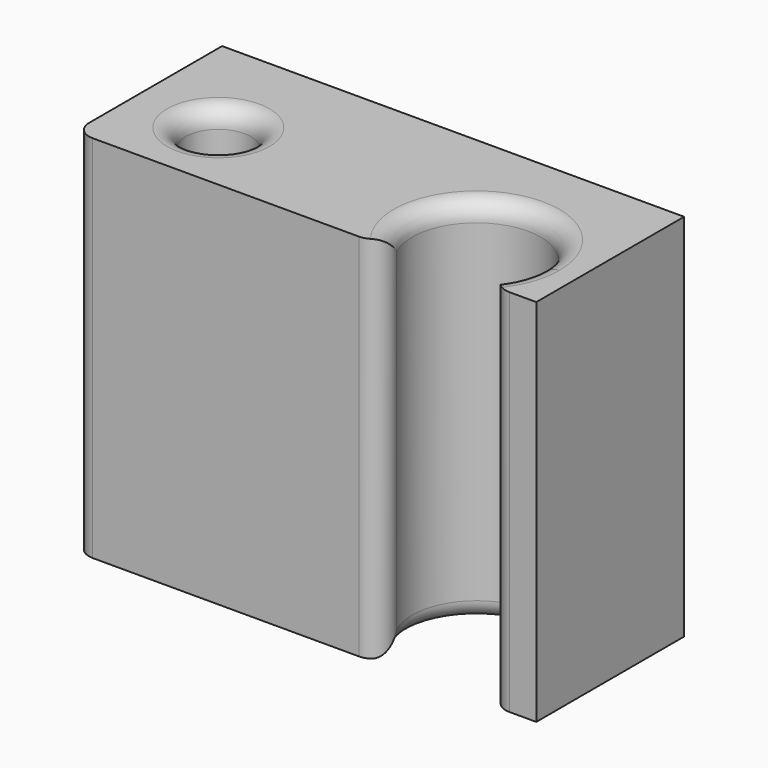
from build123d import *

# Parameters (mm, degrees)
F0_W     = 127
F0_H     = 101.6
F1_DEPTH = 25.4
F2_R     = 8.9887280552
F3_DEPTH = 101.6
F4_R     = 5.08


with BuildPart() as f1:
    # F0 (on Front) → F1 (new body, symmetric)
    with BuildSketch(Plane.XZ):
        Rectangle(F0_W, F0_H)
    extrude(amount=F1_DEPTH, both=True)

    # F2 (on face) → F3 (cut, through all)
    with BuildSketch(Plane.XY.offset(50.8)):
        with Locations((-40.4497459531, -4.7117564827)):
            Circle(F2_R)
        with BuildLine():
            ThreePointArc((45.4471273464, -25.4), (51.0720367799, -19.060106955), (53.1023527343, -10.8313970268))
            ThreePointArc((53.1023527343, -10.8313970268), (27.1833296796, 4.8286001454), (25.3769518691, -25.4))
            Line((25.3769518691, -25.4), (45.4471273464, -25.4))
        make_face()
    extrude(amount=-F3_DEPTH, mode=Mode.SUBTRACT)

    # F4
    f4_edges = [f1.edges().sort_by_distance(p)[0] for p in [
        (25.376952, -25.4, 0),
        (45.447127, -25.4, 0),
        (-63.5, -25.4, 0),
        (-49.438474, -4.711756, 50.8),
        (35.41204, 6.858916, 50.8),
        (35.41204, 6.858916, -50.8),
    ]]
    fillet(f4_edges, radius=F4_R)


solid = f1.part
